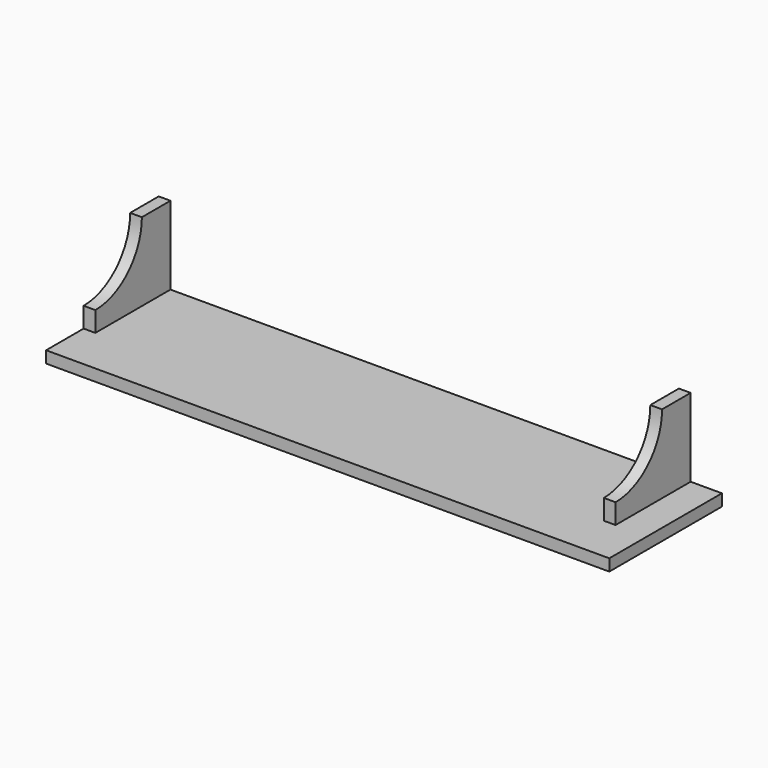
from build123d import *

# Parameters (mm, degrees)
F0_W     = 914.4
F0_H     = 19.05
F1_DEPTH = 228.6
F2_W     = 19.05
F2_H     = 152.4
F3_DEPTH = 127
F5_DEPTH = 19.05


with BuildPart() as f1:
    # F0 (on Front) → F1 (new body)
    with BuildSketch(Plane.XZ):
        with Locations((0, -9.525)):
            Rectangle(F0_W, F0_H)
    extrude(amount=F1_DEPTH)


with BuildPart() as f3:
    # F2 (on face) → F3 (new body)
    with BuildSketch(Plane.XY):
        with Locations((-447.675, -76.2)):
            Rectangle(F2_W, F2_H)
    extrude(amount=F3_DEPTH)

    # F4 (on face) → F5 (cut, through all)
    with BuildSketch(Plane(origin=(-457.2, 0, 0), x_dir=(0, -1, 0), z_dir=(-1, 0, 0))):
        with BuildLine():
            ThreePointArc((58.017562, 127), (85.661538, 60.261538), (152.4, 32.617562))
            Line((152.4, 32.617562), (152.4, 127))
            Line((152.4, 127), (58.017562, 127))
        make_face()
    extrude(amount=-F5_DEPTH, mode=Mode.SUBTRACT)


with BuildPart() as f6_1:
    # F6: copy of F3
    add(f3.part.moved(Location((844.55, 0, 0))))


solid = Compound([f1.part, f3.part, f6_1.part])
